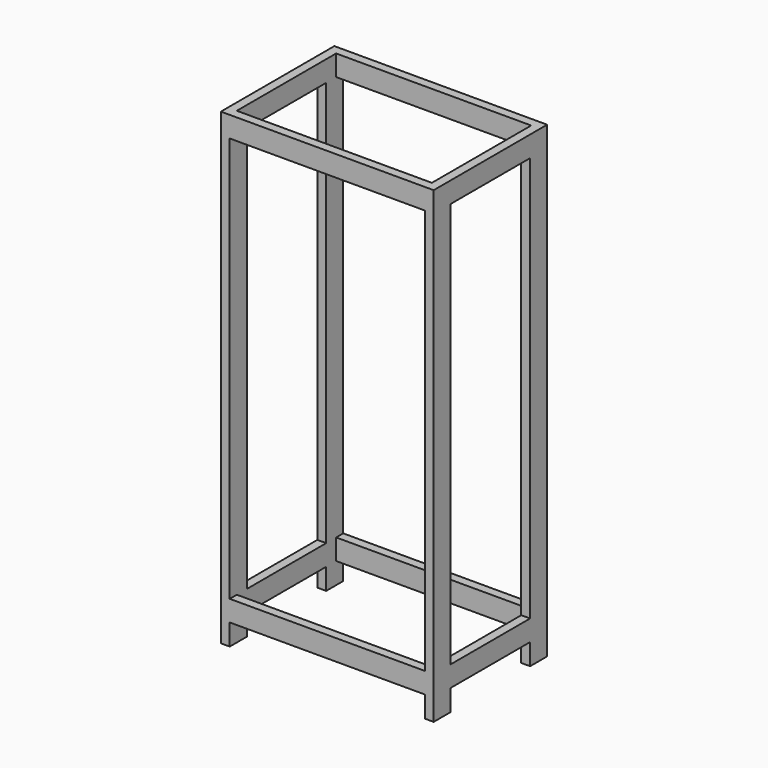
from build123d import *

# Parameters (mm, degrees)
F0_W      = 15.875
F0_H      = 25.4
F0_H_2    = 1451.4265329467
F0_H_3    = 25.4000000258
F0_W_2    = 31.75
F0_H_4    = 76.2
F0_H_5    = 11.7933667633
F0_H_6    = 11.7933667375
F1_DEPTH  = 508
F2_START  = -76.2
F1_FACE_W = 31.75
F1_FACE_H = 1676.4
F2_DEPTH  = 355.6
F3_DEPTH  = 508
F4_DEPTH  = 508
F5_START  = 31.75
F5_DEPTH  = 444.5


with BuildPart() as f1:
    # F0 (on Front) → F1 (new body)
    with BuildSketch(Plane.XZ):
        with Locations((357.1875, 1448.0473103974)):
            Rectangle(F0_W, F0_H)
        Polygon((381, 1423.553943634), (381, 1497.9406771607), (349.25, 1497.9406771607), (349.25, 1460.7473103974), (365.125, 1460.7473103974), (365.125, 1435.3473103974), (365.125, 1423.553943634), align=None)
        with Locations((373.0625, 697.8406771607)):
            Rectangle(F0_W, F0_H_2)
        with Locations((357.1875, 697.8406771607)):
            Rectangle(F0_W, F0_H_2)
        Polygon((381, -102.2593228393), (381, -27.8725893126), (365.125, -27.8725893126), (365.125, -39.6659560502), (365.125, -65.065956076), (349.25, -65.065956076), (349.25, -102.2593228393), align=None)
        with Locations((357.1875, -52.3659560631)):
            Rectangle(F0_W, F0_H_3)
        with Locations((365.125, -140.3593228393)):
            Rectangle(F0_W_2, F0_H_4)
        with Locations((357.1875, 1429.4506270157)):
            Rectangle(F0_W, F0_H_5)
        with Locations((357.1875, -33.7692726814)):
            Rectangle(F0_W, F0_H_6)
    extrude(amount=F1_DEPTH)


with BuildPart() as f1b:
    # F0 (on Front) → F1, piece 2 (new body)
    with BuildSketch(Plane.XZ):
        with Locations((-365.125, -140.3593228393)):
            Rectangle(F0_W_2, F0_H_4)
        Polygon((-365.125, -27.8725893126), (-381, -27.8725893126), (-381, -102.2593228393), (-349.25, -102.2593228393), (-349.25, -65.065956076), (-365.125, -65.065956076), (-365.125, -39.6659560502), align=None)
        with Locations((-357.1875, -52.3659560631)):
            Rectangle(F0_W, F0_H_3)
        with Locations((-357.1875, 697.8406771607)):
            Rectangle(F0_W, F0_H_2)
        with Locations((-373.0625, 697.8406771607)):
            Rectangle(F0_W, F0_H_2)
        with Locations((-357.1875, 1448.0473103974)):
            Rectangle(F0_W, F0_H)
        Polygon((-349.25, 1460.7473103974), (-349.25, 1497.9406771607), (-381, 1497.9406771607), (-381, 1423.553943634), (-365.125, 1423.553943634), (-365.125, 1435.3473103974), (-365.125, 1460.7473103974), align=None)
        with Locations((-357.1875, 1429.4506270157)):
            Rectangle(F0_W, F0_H_5)
        with Locations((-357.1875, -33.7692726814)):
            Rectangle(F0_W, F0_H_6)
    extrude(amount=F1_DEPTH)


with BuildPart() as f2_tool:
    # F1_face (on face) → F2 (new body)
    with BuildSketch(Plane(origin=(365.125, 0, 659.7406771607), x_dir=(1, 0, 0), z_dir=(0, 1, 0)).offset(F2_START)):
        Rectangle(F1_FACE_W, F1_FACE_H)
        with Locations((-730.25, 0)):
            Rectangle(F1_FACE_W, F1_FACE_H)
    extrude(amount=-F2_DEPTH)


with BuildPart() as f1_1:
    add(f1.part)

    # F2: cut by f2_tool
    add(f2_tool.part, mode=Mode.SUBTRACT)



with BuildPart() as f1b_1:
    add(f1b.part)

    # F2: cut by f2_tool
    add(f2_tool.part, mode=Mode.SUBTRACT)


with BuildPart() as f3:
    # F0 (on Front) → F3 (new body, through all)
    with BuildSketch(Plane.XZ):
        Polygon((381, 1423.553943634), (381, 1497.9406771607), (349.25, 1497.9406771607), (349.25, 1460.7473103974), (365.125, 1460.7473103974), (365.125, 1435.3473103974), (365.125, 1423.553943634), align=None)
        with Locations((357.1875, 1429.4506270157)):
            Rectangle(F0_W, F0_H_5)
        with Locations((357.1875, 1448.0473103974)):
            Rectangle(F0_W, F0_H)
    extrude(amount=F3_DEPTH)


with BuildPart() as f3b:
    # F0 (on Front) → F3, piece 2 (new body, through all)
    with BuildSketch(Plane.XZ):
        Polygon((-349.25, 1460.7473103974), (-349.25, 1497.9406771607), (-381, 1497.9406771607), (-381, 1423.553943634), (-365.125, 1423.553943634), (-365.125, 1435.3473103974), (-365.125, 1460.7473103974), align=None)
        with Locations((-357.1875, 1448.0473103974)):
            Rectangle(F0_W, F0_H)
        with Locations((-357.1875, 1429.4506270157)):
            Rectangle(F0_W, F0_H_5)
    extrude(amount=F3_DEPTH)


with BuildPart() as f3c:
    # F0 (on Front) → F3, piece 3 (new body, through all)
    with BuildSketch(Plane.XZ):
        with Locations((357.1875, -52.3659560631)):
            Rectangle(F0_W, F0_H_3)
        Polygon((381, -102.2593228393), (381, -27.8725893126), (365.125, -27.8725893126), (365.125, -39.6659560502), (365.125, -65.065956076), (349.25, -65.065956076), (349.25, -102.2593228393), align=None)
        with Locations((357.1875, -33.7692726814)):
            Rectangle(F0_W, F0_H_6)
    extrude(amount=F3_DEPTH)


with BuildPart() as f3d:
    # F0 (on Front) → F3, piece 4 (new body, through all)
    with BuildSketch(Plane.XZ):
        with Locations((-357.1875, -52.3659560631)):
            Rectangle(F0_W, F0_H_3)
        Polygon((-365.125, -27.8725893126), (-381, -27.8725893126), (-381, -102.2593228393), (-349.25, -102.2593228393), (-349.25, -65.065956076), (-365.125, -65.065956076), (-365.125, -39.6659560502), align=None)
        with Locations((-357.1875, -33.7692726814)):
            Rectangle(F0_W, F0_H_6)
    extrude(amount=F3_DEPTH)


with BuildPart() as f1_2:
    add(f1_1.part)

    add(f1b_1.part)  # F4 merges F1b

    add(f3.part)  # F4 merges F3

    add(f3b.part)  # F4 merges F3b

    add(f3c.part)  # F4 merges F3c

    add(f3d.part)  # F4 merges F3d
    # F0 (on Front) → F4 (join)
    with BuildSketch(Plane.XZ):
        Polygon((349.25, 1460.7473103974), (349.25, 1497.9406771607), (-349.25, 1497.9406771607), (-349.25, 1460.7473103974), (0, 1460.7473103974), align=None)
        Polygon((349.25, 1423.553943634), (349.25, 1435.3473103974), (0, 1435.3473103974), (-349.25, 1435.3473103974), (-349.25, 1423.553943634), align=None)
        Polygon((349.25, -39.6659560502), (349.25, -27.8725893126), (-349.25, -27.8725893126), (-349.25, -39.6659560502), (0, -39.6659560502), align=None)
        Polygon((-349.25, -102.2593228393), (349.25, -102.2593228393), (349.25, -65.065956076), (0, -65.065956076), (-349.25, -65.065956076), align=None)
        Polygon((0, -65.065956076), (349.25, -65.065956076), (349.25, -39.6659560502), (0, -39.6659560502), (-349.25, -39.6659560502), (-349.25, -65.065956076), align=None)
        Polygon((349.25, 1435.3473103974), (349.25, 1460.7473103974), (0, 1460.7473103974), (-349.25, 1460.7473103974), (-349.25, 1435.3473103974), (0, 1435.3473103974), align=None)
    extrude(amount=F4_DEPTH)

    # F0 (on Front) → F5 (cut)
    with BuildSketch(Plane.XZ.offset(F5_START)):
        Polygon((349.25, 1423.553943634), (349.25, 1435.3473103974), (0, 1435.3473103974), (-349.25, 1435.3473103974), (-349.25, 1423.553943634), align=None)
        Polygon((349.25, 1460.7473103974), (349.25, 1497.9406771607), (-349.25, 1497.9406771607), (-349.25, 1460.7473103974), (0, 1460.7473103974), align=None)
        Polygon((349.25, -39.6659560502), (349.25, -27.8725893126), (-349.25, -27.8725893126), (-349.25, -39.6659560502), (0, -39.6659560502), align=None)
        Polygon((-349.25, -102.2593228393), (349.25, -102.2593228393), (349.25, -65.065956076), (0, -65.065956076), (-349.25, -65.065956076), align=None)
        Polygon((349.25, 1435.3473103974), (349.25, 1460.7473103974), (0, 1460.7473103974), (-349.25, 1460.7473103974), (-349.25, 1435.3473103974), (0, 1435.3473103974), align=None)
        Polygon((0, -65.065956076), (349.25, -65.065956076), (349.25, -39.6659560502), (0, -39.6659560502), (-349.25, -39.6659560502), (-349.25, -65.065956076), align=None)
    extrude(amount=F5_DEPTH, mode=Mode.SUBTRACT)


solid = f1_2.part
